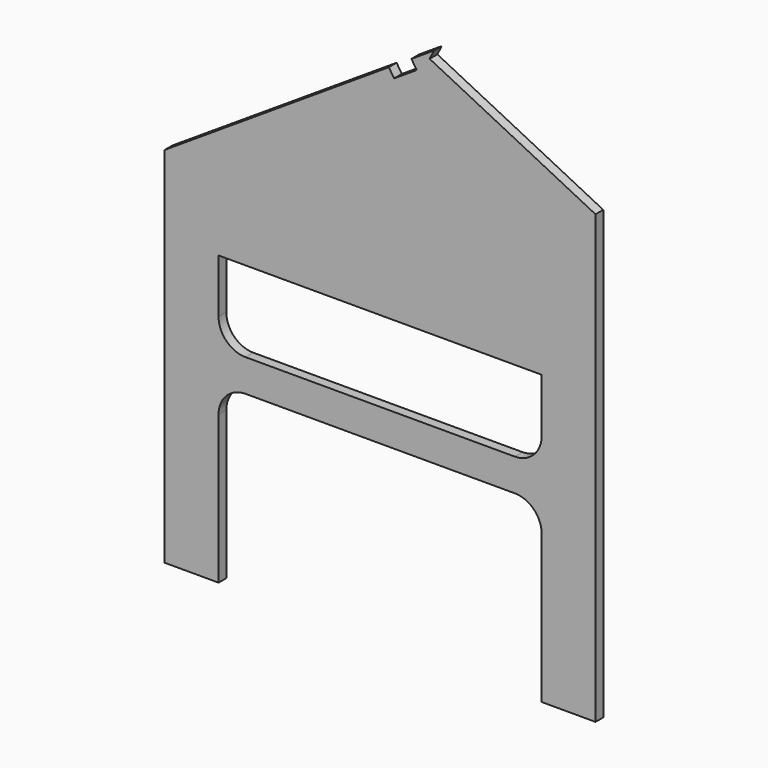
from build123d import *

# Parameters (mm, degrees)
F1_DEPTH = 18
F5_DEPTH = 18
F7_DEPTH = 18


with BuildPart() as f1:
    # F0 (on Front) → F1 (new body)
    with BuildSketch(Plane.XZ):
        with BuildLine():
            Line((0, 675), (0, 0))
            Line((0, 0), (100, 0))
            Line((100, 0), (100, 275))
            ThreePointArc((100, 275), (114.644661, 310.355339), (150, 325))
            Line((150, 325), (650, 325))
            ThreePointArc((650, 325), (685.355339, 310.355339), (700, 275))
            Line((700, 275), (700, 0))
            Line((700, 0), (800, 0))
            Line((800, 0), (800, 850))
            Line((800, 850), (500, 1000))
            Line((500, 1000), (0, 675))
        make_face()
        with BuildLine():
            Line((650, 385), (150, 385))
            ThreePointArc((150, 385), (114.644661, 399.644661), (100, 435))
            Line((100, 435), (100, 535))
            Line((100, 535), (700, 535))
            Line((700, 535), (700, 435))
            ThreePointArc((700, 435), (685.355339, 399.644661), (650, 385))
        make_face(mode=Mode.SUBTRACT)
    extrude(amount=F1_DEPTH)

    # F4 (on face) → F5 (cut, through all)
    with BuildSketch(Plane.XZ.offset(18)):
        Polygon((458.077819, 972.750582), (416.155638, 945.501165), (425.965429, 930.40918), (467.887609, 957.658597), align=None)
    extrude(amount=-F5_DEPTH, mode=Mode.SUBTRACT)

    # F6 (on face) → F7 (cut, through all)
    with BuildSketch(Plane.XZ.offset(18)):
        Polygon((857.770876, 821.114562), (500, 1000), (491.950155, 983.900311), (849.721032, 805.014872), align=None)
    extrude(amount=-F7_DEPTH, mode=Mode.SUBTRACT)


solid = f1.part
